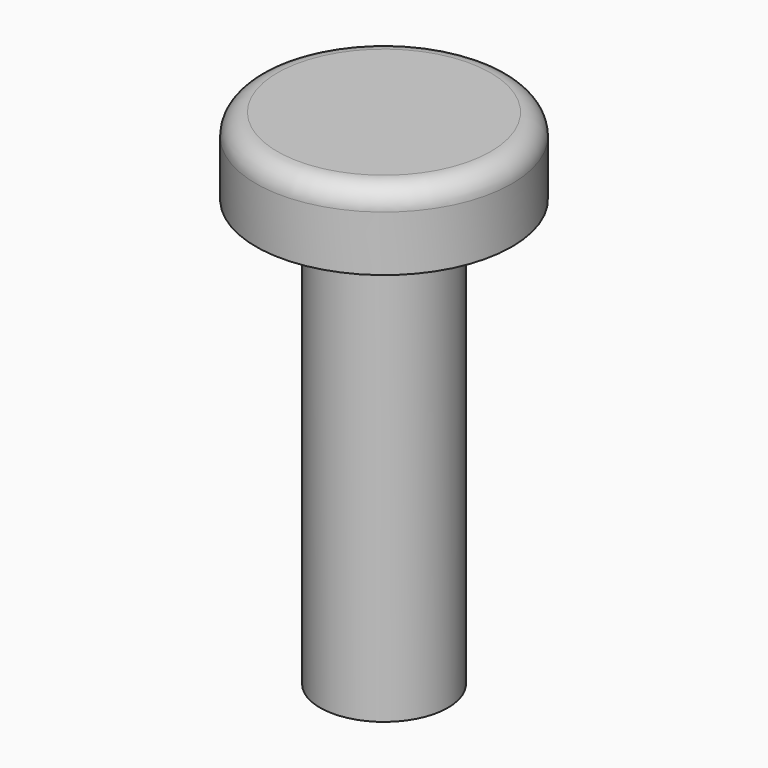
from build123d import *

# Parameters (mm, degrees)
F0_R     = 3
F1_DEPTH = 1.8
F2_R     = 1.5
F3_DEPTH = 10
F4_R     = 0.5


with BuildPart() as f1:
    # F0 (on Top) → F1 (new body)
    with BuildSketch(Plane.XY):
        with Locations((0, 0.551688)):
            Circle(F0_R)
    extrude(amount=F1_DEPTH)

    # F2 (on face) → F3 (join)
    with BuildSketch(Plane(origin=(0, 0, 0), x_dir=(1, 0, 0), z_dir=(0, 0, -1))):
        with Locations((0, -0.551688)):
            Circle(F2_R)
        with Locations((0, -0.551688)):
            Circle(F2_R)
    extrude(amount=F3_DEPTH)

    # F4
    f4_edges = [f1.edges().sort_by_distance(p)[0] for p in [
        (-3, 0.551688, 1.8),
    ]]
    fillet(f4_edges, radius=F4_R)


solid = f1.part
